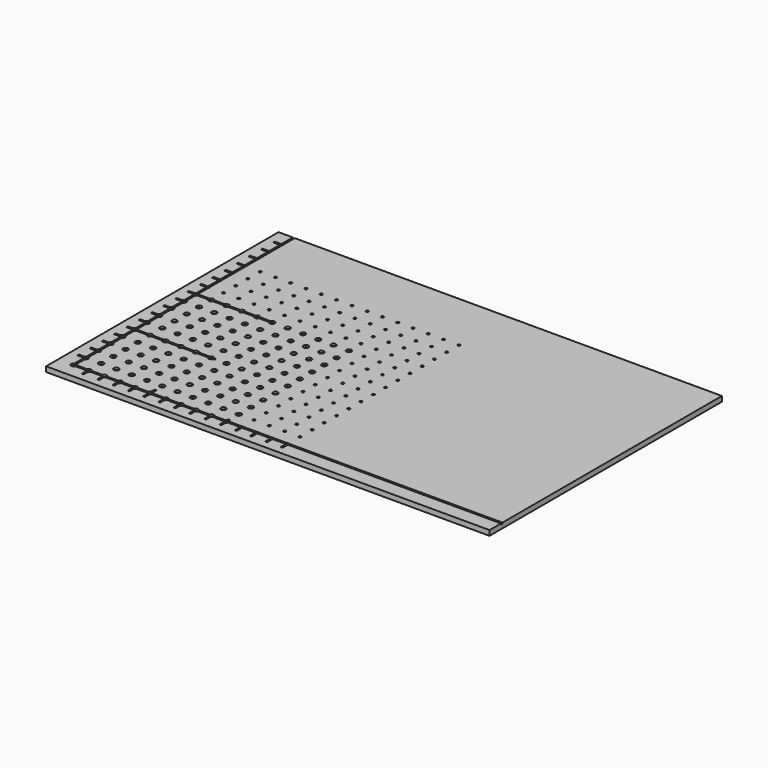
from build123d import *

# Parameters (mm, degrees)
F0_W      = 348
F0_H      = 228
F0_R      = 1
F1_DEPTH  = 4
F5_W      = 348
F5_H      = 228
F6_DEPTH  = 25
F7_R      = 2
F8_DEPTH  = 1.5
F9_DEPTH  = 1
F3_W      = 1.5
F3_H      = 6
F3_W_2    = 6
F3_H_2    = 1.5
F10_DEPTH = 1
F4_W      = 1.5
F4_H      = 5.414197
F4_H_2    = 2.753154
F4_W_2    = 63.146937
F4_H_3    = 1.5
F4_W_3    = 61.760404
F11_DEPTH = 1


with BuildPart() as f1:
    # F0 (on Top) → F1 (new body)
    with BuildSketch(Plane.XY):
        Rectangle(F0_W, F0_H)
        with Locations((-162, -102)):
            Circle(F0_R, mode=Mode.SUBTRACT)
        with Locations((-150, -102)):
            Circle(F0_R, mode=Mode.SUBTRACT)
        with Locations((-138, -102)):
            Circle(F0_R, mode=Mode.SUBTRACT)
        with Locations((-162, -90)):
            Circle(F0_R, mode=Mode.SUBTRACT)
        with Locations((-150, -90)):
            Circle(F0_R, mode=Mode.SUBTRACT)
        with Locations((-138, -90)):
            Circle(F0_R, mode=Mode.SUBTRACT)
        with Locations((-126, -102)):
            Circle(F0_R, mode=Mode.SUBTRACT)
        with Locations((-114, -102)):
            Circle(F0_R, mode=Mode.SUBTRACT)
        with Locations((-102, -102)):
            Circle(F0_R, mode=Mode.SUBTRACT)
        with Locations((-90, -102)):
            Circle(F0_R, mode=Mode.SUBTRACT)
        with Locations((-126, -90)):
            Circle(F0_R, mode=Mode.SUBTRACT)
        with Locations((-114, -90)):
            Circle(F0_R, mode=Mode.SUBTRACT)
        with Locations((-102, -90)):
            Circle(F0_R, mode=Mode.SUBTRACT)
        with Locations((-90, -90)):
            Circle(F0_R, mode=Mode.SUBTRACT)
        with Locations((-162, -78)):
            Circle(F0_R, mode=Mode.SUBTRACT)
        with Locations((-150, -78)):
            Circle(F0_R, mode=Mode.SUBTRACT)
        with Locations((-138, -78)):
            Circle(F0_R, mode=Mode.SUBTRACT)
        with Locations((-162, -66)):
            Circle(F0_R, mode=Mode.SUBTRACT)
        with Locations((-150, -66)):
            Circle(F0_R, mode=Mode.SUBTRACT)
        with Locations((-138, -66)):
            Circle(F0_R, mode=Mode.SUBTRACT)
        with Locations((-126, -78)):
            Circle(F0_R, mode=Mode.SUBTRACT)
        with Locations((-114, -78)):
            Circle(F0_R, mode=Mode.SUBTRACT)
        with Locations((-102, -78)):
            Circle(F0_R, mode=Mode.SUBTRACT)
        with Locations((-90, -78)):
            Circle(F0_R, mode=Mode.SUBTRACT)
        with Locations((-126, -66)):
            Circle(F0_R, mode=Mode.SUBTRACT)
        with Locations((-114, -66)):
            Circle(F0_R, mode=Mode.SUBTRACT)
        with Locations((-102, -66)):
            Circle(F0_R, mode=Mode.SUBTRACT)
        with Locations((-90, -66)):
            Circle(F0_R, mode=Mode.SUBTRACT)
        with Locations((-78, -102)):
            Circle(F0_R, mode=Mode.SUBTRACT)
        with Locations((-66, -102)):
            Circle(F0_R, mode=Mode.SUBTRACT)
        with Locations((-54, -102)):
            Circle(F0_R, mode=Mode.SUBTRACT)
        with Locations((-78, -90)):
            Circle(F0_R, mode=Mode.SUBTRACT)
        with Locations((-66, -90)):
            Circle(F0_R, mode=Mode.SUBTRACT)
        with Locations((-54, -90)):
            Circle(F0_R, mode=Mode.SUBTRACT)
        with Locations((-42, -102)):
            Circle(F0_R, mode=Mode.SUBTRACT)
        with Locations((-30, -102)):
            Circle(F0_R, mode=Mode.SUBTRACT)
        with Locations((-18, -102)):
            Circle(F0_R, mode=Mode.SUBTRACT)
        with Locations((-6, -102)):
            Circle(F0_R, mode=Mode.SUBTRACT)
        with Locations((-42, -90)):
            Circle(F0_R, mode=Mode.SUBTRACT)
        with Locations((-30, -90)):
            Circle(F0_R, mode=Mode.SUBTRACT)
        with Locations((-18, -90)):
            Circle(F0_R, mode=Mode.SUBTRACT)
        with Locations((-6, -90)):
            Circle(F0_R, mode=Mode.SUBTRACT)
        with Locations((-78, -78)):
            Circle(F0_R, mode=Mode.SUBTRACT)
        with Locations((-66, -78)):
            Circle(F0_R, mode=Mode.SUBTRACT)
        with Locations((-54, -78)):
            Circle(F0_R, mode=Mode.SUBTRACT)
        with Locations((-78, -66)):
            Circle(F0_R, mode=Mode.SUBTRACT)
        with Locations((-66, -66)):
            Circle(F0_R, mode=Mode.SUBTRACT)
        with Locations((-54, -66)):
            Circle(F0_R, mode=Mode.SUBTRACT)
        with Locations((-42, -78)):
            Circle(F0_R, mode=Mode.SUBTRACT)
        with Locations((-30, -78)):
            Circle(F0_R, mode=Mode.SUBTRACT)
        with Locations((-18, -78)):
            Circle(F0_R, mode=Mode.SUBTRACT)
        with Locations((-6, -78)):
            Circle(F0_R, mode=Mode.SUBTRACT)
        with Locations((-42, -66)):
            Circle(F0_R, mode=Mode.SUBTRACT)
        with Locations((-30, -66)):
            Circle(F0_R, mode=Mode.SUBTRACT)
        with Locations((-18, -66)):
            Circle(F0_R, mode=Mode.SUBTRACT)
        with Locations((-6, -66)):
            Circle(F0_R, mode=Mode.SUBTRACT)
        with Locations((-162, -54)):
            Circle(F0_R, mode=Mode.SUBTRACT)
        with Locations((-150, -54)):
            Circle(F0_R, mode=Mode.SUBTRACT)
        with Locations((-138, -54)):
            Circle(F0_R, mode=Mode.SUBTRACT)
        with Locations((-162, -42)):
            Circle(F0_R, mode=Mode.SUBTRACT)
        with Locations((-162, -30)):
            Circle(F0_R, mode=Mode.SUBTRACT)
        with Locations((-150, -42)):
            Circle(F0_R, mode=Mode.SUBTRACT)
        with Locations((-138, -42)):
            Circle(F0_R, mode=Mode.SUBTRACT)
        with Locations((-150, -30)):
            Circle(F0_R, mode=Mode.SUBTRACT)
        with Locations((-138, -30)):
            Circle(F0_R, mode=Mode.SUBTRACT)
        with Locations((-126, -54)):
            Circle(F0_R, mode=Mode.SUBTRACT)
        with Locations((-114, -54)):
            Circle(F0_R, mode=Mode.SUBTRACT)
        with Locations((-102, -54)):
            Circle(F0_R, mode=Mode.SUBTRACT)
        with Locations((-90, -54)):
            Circle(F0_R, mode=Mode.SUBTRACT)
        with Locations((-126, -42)):
            Circle(F0_R, mode=Mode.SUBTRACT)
        with Locations((-114, -42)):
            Circle(F0_R, mode=Mode.SUBTRACT)
        with Locations((-126, -30)):
            Circle(F0_R, mode=Mode.SUBTRACT)
        with Locations((-114, -30)):
            Circle(F0_R, mode=Mode.SUBTRACT)
        with Locations((-102, -42)):
            Circle(F0_R, mode=Mode.SUBTRACT)
        with Locations((-90, -42)):
            Circle(F0_R, mode=Mode.SUBTRACT)
        with Locations((-102, -30)):
            Circle(F0_R, mode=Mode.SUBTRACT)
        with Locations((-90, -30)):
            Circle(F0_R, mode=Mode.SUBTRACT)
        with Locations((-162, -18)):
            Circle(F0_R, mode=Mode.SUBTRACT)
        with Locations((-150, -18)):
            Circle(F0_R, mode=Mode.SUBTRACT)
        with Locations((-138, -18)):
            Circle(F0_R, mode=Mode.SUBTRACT)
        with Locations((-162, -6)):
            Circle(F0_R, mode=Mode.SUBTRACT)
        with Locations((-150, -6)):
            Circle(F0_R, mode=Mode.SUBTRACT)
        with Locations((-138, -6)):
            Circle(F0_R, mode=Mode.SUBTRACT)
        with Locations((-126, -18)):
            Circle(F0_R, mode=Mode.SUBTRACT)
        with Locations((-114, -18)):
            Circle(F0_R, mode=Mode.SUBTRACT)
        with Locations((-102, -18)):
            Circle(F0_R, mode=Mode.SUBTRACT)
        with Locations((-90, -18)):
            Circle(F0_R, mode=Mode.SUBTRACT)
        with Locations((-126, -6)):
            Circle(F0_R, mode=Mode.SUBTRACT)
        with Locations((-114, -6)):
            Circle(F0_R, mode=Mode.SUBTRACT)
        with Locations((-102, -6)):
            Circle(F0_R, mode=Mode.SUBTRACT)
        with Locations((-90, -6)):
            Circle(F0_R, mode=Mode.SUBTRACT)
        with Locations((-78, -54)):
            Circle(F0_R, mode=Mode.SUBTRACT)
        with Locations((-66, -54)):
            Circle(F0_R, mode=Mode.SUBTRACT)
        with Locations((-54, -54)):
            Circle(F0_R, mode=Mode.SUBTRACT)
        with Locations((-78, -42)):
            Circle(F0_R, mode=Mode.SUBTRACT)
        with Locations((-66, -42)):
            Circle(F0_R, mode=Mode.SUBTRACT)
        with Locations((-78, -30)):
            Circle(F0_R, mode=Mode.SUBTRACT)
        with Locations((-66, -30)):
            Circle(F0_R, mode=Mode.SUBTRACT)
        with Locations((-54, -42)):
            Circle(F0_R, mode=Mode.SUBTRACT)
        with Locations((-54, -30)):
            Circle(F0_R, mode=Mode.SUBTRACT)
        with Locations((-42, -54)):
            Circle(F0_R, mode=Mode.SUBTRACT)
        with Locations((-30, -54)):
            Circle(F0_R, mode=Mode.SUBTRACT)
        with Locations((-18, -54)):
            Circle(F0_R, mode=Mode.SUBTRACT)
        with Locations((-6, -54)):
            Circle(F0_R, mode=Mode.SUBTRACT)
        with Locations((-42, -42)):
            Circle(F0_R, mode=Mode.SUBTRACT)
        with Locations((-30, -42)):
            Circle(F0_R, mode=Mode.SUBTRACT)
        with Locations((-42, -30)):
            Circle(F0_R, mode=Mode.SUBTRACT)
        with Locations((-30, -30)):
            Circle(F0_R, mode=Mode.SUBTRACT)
        with Locations((-18, -42)):
            Circle(F0_R, mode=Mode.SUBTRACT)
        with Locations((-6, -42)):
            Circle(F0_R, mode=Mode.SUBTRACT)
        with Locations((-18, -30)):
            Circle(F0_R, mode=Mode.SUBTRACT)
        with Locations((-6, -30)):
            Circle(F0_R, mode=Mode.SUBTRACT)
        with Locations((-78, -18)):
            Circle(F0_R, mode=Mode.SUBTRACT)
        with Locations((-66, -18)):
            Circle(F0_R, mode=Mode.SUBTRACT)
        with Locations((-54, -18)):
            Circle(F0_R, mode=Mode.SUBTRACT)
        with Locations((-78, -6)):
            Circle(F0_R, mode=Mode.SUBTRACT)
        with Locations((-66, -6)):
            Circle(F0_R, mode=Mode.SUBTRACT)
        with Locations((-54, -6)):
            Circle(F0_R, mode=Mode.SUBTRACT)
        with Locations((-42, -18)):
            Circle(F0_R, mode=Mode.SUBTRACT)
        with Locations((-30, -18)):
            Circle(F0_R, mode=Mode.SUBTRACT)
        with Locations((-18, -18)):
            Circle(F0_R, mode=Mode.SUBTRACT)
        with Locations((-6, -18)):
            Circle(F0_R, mode=Mode.SUBTRACT)
        with Locations((-42, -6)):
            Circle(F0_R, mode=Mode.SUBTRACT)
        with Locations((-30, -6)):
            Circle(F0_R, mode=Mode.SUBTRACT)
        with Locations((-18, -6)):
            Circle(F0_R, mode=Mode.SUBTRACT)
        with Locations((-6, -6)):
            Circle(F0_R, mode=Mode.SUBTRACT)
        with Locations((6, -102)):
            Circle(F0_R, mode=Mode.SUBTRACT)
        with Locations((6, -90)):
            Circle(F0_R, mode=Mode.SUBTRACT)
        with Locations((6, -78)):
            Circle(F0_R, mode=Mode.SUBTRACT)
        with Locations((6, -66)):
            Circle(F0_R, mode=Mode.SUBTRACT)
        with Locations((6, -54)):
            Circle(F0_R, mode=Mode.SUBTRACT)
        with Locations((6, -42)):
            Circle(F0_R, mode=Mode.SUBTRACT)
        with Locations((6, -30)):
            Circle(F0_R, mode=Mode.SUBTRACT)
        with Locations((6, -18)):
            Circle(F0_R, mode=Mode.SUBTRACT)
        with Locations((6, -6)):
            Circle(F0_R, mode=Mode.SUBTRACT)
        with Locations((-162, 6)):
            Circle(F0_R, mode=Mode.SUBTRACT)
        with Locations((-150, 6)):
            Circle(F0_R, mode=Mode.SUBTRACT)
        with Locations((-138, 6)):
            Circle(F0_R, mode=Mode.SUBTRACT)
        with Locations((-162, 18)):
            Circle(F0_R, mode=Mode.SUBTRACT)
        with Locations((-150, 18)):
            Circle(F0_R, mode=Mode.SUBTRACT)
        with Locations((-138, 18)):
            Circle(F0_R, mode=Mode.SUBTRACT)
        with Locations((-126, 6)):
            Circle(F0_R, mode=Mode.SUBTRACT)
        with Locations((-114, 6)):
            Circle(F0_R, mode=Mode.SUBTRACT)
        with Locations((-102, 6)):
            Circle(F0_R, mode=Mode.SUBTRACT)
        with Locations((-90, 6)):
            Circle(F0_R, mode=Mode.SUBTRACT)
        with Locations((-126, 18)):
            Circle(F0_R, mode=Mode.SUBTRACT)
        with Locations((-114, 18)):
            Circle(F0_R, mode=Mode.SUBTRACT)
        with Locations((-102, 18)):
            Circle(F0_R, mode=Mode.SUBTRACT)
        with Locations((-90, 18)):
            Circle(F0_R, mode=Mode.SUBTRACT)
        with Locations((-162, 30)):
            Circle(F0_R, mode=Mode.SUBTRACT)
        with Locations((-162, 42)):
            Circle(F0_R, mode=Mode.SUBTRACT)
        with Locations((-150, 30)):
            Circle(F0_R, mode=Mode.SUBTRACT)
        with Locations((-138, 30)):
            Circle(F0_R, mode=Mode.SUBTRACT)
        with Locations((-150, 42)):
            Circle(F0_R, mode=Mode.SUBTRACT)
        with Locations((-138, 42)):
            Circle(F0_R, mode=Mode.SUBTRACT)
        with Locations((-162, 54)):
            Circle(F0_R, mode=Mode.SUBTRACT)
        with Locations((-150, 54)):
            Circle(F0_R, mode=Mode.SUBTRACT)
        with Locations((-138, 54)):
            Circle(F0_R, mode=Mode.SUBTRACT)
        with Locations((-126, 30)):
            Circle(F0_R, mode=Mode.SUBTRACT)
        with Locations((-114, 30)):
            Circle(F0_R, mode=Mode.SUBTRACT)
        with Locations((-126, 42)):
            Circle(F0_R, mode=Mode.SUBTRACT)
        with Locations((-114, 42)):
            Circle(F0_R, mode=Mode.SUBTRACT)
        with Locations((-102, 30)):
            Circle(F0_R, mode=Mode.SUBTRACT)
        with Locations((-90, 30)):
            Circle(F0_R, mode=Mode.SUBTRACT)
        with Locations((-102, 42)):
            Circle(F0_R, mode=Mode.SUBTRACT)
        with Locations((-90, 42)):
            Circle(F0_R, mode=Mode.SUBTRACT)
        with Locations((-126, 54)):
            Circle(F0_R, mode=Mode.SUBTRACT)
        with Locations((-114, 54)):
            Circle(F0_R, mode=Mode.SUBTRACT)
        with Locations((-102, 54)):
            Circle(F0_R, mode=Mode.SUBTRACT)
        with Locations((-90, 54)):
            Circle(F0_R, mode=Mode.SUBTRACT)
        with Locations((-78, 6)):
            Circle(F0_R, mode=Mode.SUBTRACT)
        with Locations((-66, 6)):
            Circle(F0_R, mode=Mode.SUBTRACT)
        with Locations((-54, 6)):
            Circle(F0_R, mode=Mode.SUBTRACT)
        with Locations((-78, 18)):
            Circle(F0_R, mode=Mode.SUBTRACT)
        with Locations((-66, 18)):
            Circle(F0_R, mode=Mode.SUBTRACT)
        with Locations((-54, 18)):
            Circle(F0_R, mode=Mode.SUBTRACT)
        with Locations((-42, 6)):
            Circle(F0_R, mode=Mode.SUBTRACT)
        with Locations((-30, 6)):
            Circle(F0_R, mode=Mode.SUBTRACT)
        with Locations((-18, 6)):
            Circle(F0_R, mode=Mode.SUBTRACT)
        with Locations((-6, 6)):
            Circle(F0_R, mode=Mode.SUBTRACT)
        with Locations((-42, 18)):
            Circle(F0_R, mode=Mode.SUBTRACT)
        with Locations((-30, 18)):
            Circle(F0_R, mode=Mode.SUBTRACT)
        with Locations((-18, 18)):
            Circle(F0_R, mode=Mode.SUBTRACT)
        with Locations((-6, 18)):
            Circle(F0_R, mode=Mode.SUBTRACT)
        with Locations((-78, 30)):
            Circle(F0_R, mode=Mode.SUBTRACT)
        with Locations((-66, 30)):
            Circle(F0_R, mode=Mode.SUBTRACT)
        with Locations((-78, 42)):
            Circle(F0_R, mode=Mode.SUBTRACT)
        with Locations((-66, 42)):
            Circle(F0_R, mode=Mode.SUBTRACT)
        with Locations((-54, 30)):
            Circle(F0_R, mode=Mode.SUBTRACT)
        with Locations((-54, 42)):
            Circle(F0_R, mode=Mode.SUBTRACT)
        with Locations((-78, 54)):
            Circle(F0_R, mode=Mode.SUBTRACT)
        with Locations((-66, 54)):
            Circle(F0_R, mode=Mode.SUBTRACT)
        with Locations((-54, 54)):
            Circle(F0_R, mode=Mode.SUBTRACT)
        with Locations((-42, 30)):
            Circle(F0_R, mode=Mode.SUBTRACT)
        with Locations((-30, 30)):
            Circle(F0_R, mode=Mode.SUBTRACT)
        with Locations((-42, 42)):
            Circle(F0_R, mode=Mode.SUBTRACT)
        with Locations((-30, 42)):
            Circle(F0_R, mode=Mode.SUBTRACT)
        with Locations((-18, 30)):
            Circle(F0_R, mode=Mode.SUBTRACT)
        with Locations((-6, 30)):
            Circle(F0_R, mode=Mode.SUBTRACT)
        with Locations((-18, 42)):
            Circle(F0_R, mode=Mode.SUBTRACT)
        with Locations((-6, 42)):
            Circle(F0_R, mode=Mode.SUBTRACT)
        with Locations((-42, 54)):
            Circle(F0_R, mode=Mode.SUBTRACT)
        with Locations((-30, 54)):
            Circle(F0_R, mode=Mode.SUBTRACT)
        with Locations((-18, 54)):
            Circle(F0_R, mode=Mode.SUBTRACT)
        with Locations((-6, 54)):
            Circle(F0_R, mode=Mode.SUBTRACT)
        with Locations((-162, 66)):
            Circle(F0_R, mode=Mode.SUBTRACT)
        with Locations((-150, 66)):
            Circle(F0_R, mode=Mode.SUBTRACT)
        with Locations((-138, 66)):
            Circle(F0_R, mode=Mode.SUBTRACT)
        with Locations((-126, 66)):
            Circle(F0_R, mode=Mode.SUBTRACT)
        with Locations((-114, 66)):
            Circle(F0_R, mode=Mode.SUBTRACT)
        with Locations((-102, 66)):
            Circle(F0_R, mode=Mode.SUBTRACT)
        with Locations((-90, 66)):
            Circle(F0_R, mode=Mode.SUBTRACT)
        with Locations((-78, 66)):
            Circle(F0_R, mode=Mode.SUBTRACT)
        with Locations((-66, 66)):
            Circle(F0_R, mode=Mode.SUBTRACT)
        with Locations((-54, 66)):
            Circle(F0_R, mode=Mode.SUBTRACT)
        with Locations((-42, 66)):
            Circle(F0_R, mode=Mode.SUBTRACT)
        with Locations((-30, 66)):
            Circle(F0_R, mode=Mode.SUBTRACT)
        with Locations((-18, 66)):
            Circle(F0_R, mode=Mode.SUBTRACT)
        with Locations((-6, 66)):
            Circle(F0_R, mode=Mode.SUBTRACT)
        with Locations((6, 6)):
            Circle(F0_R, mode=Mode.SUBTRACT)
        with Locations((6, 18)):
            Circle(F0_R, mode=Mode.SUBTRACT)
        with Locations((6, 30)):
            Circle(F0_R, mode=Mode.SUBTRACT)
        with Locations((6, 42)):
            Circle(F0_R, mode=Mode.SUBTRACT)
        with Locations((6, 54)):
            Circle(F0_R, mode=Mode.SUBTRACT)
        with Locations((6, 66)):
            Circle(F0_R, mode=Mode.SUBTRACT)
    extrude(amount=F1_DEPTH)

    # F5 (on face) → F6 (intersect)
    with BuildSketch(Plane.XY.offset(4)):
        Rectangle(F5_W, F5_H)
    extrude(amount=-F6_DEPTH, mode=Mode.INTERSECT)

    # F7 (on face) → F8 (cut)
    with BuildSketch(Plane.XY.offset(4)):
        with Locations((-162, 18)):
            Circle(F7_R)
        with Locations((-162, 6)):
            Circle(F7_R)
        with Locations((-162, -6)):
            Circle(F7_R)
        with Locations((-162, -18)):
            Circle(F7_R)
        with Locations((-162, -30)):
            Circle(F7_R)
        with Locations((-162, -42)):
            Circle(F7_R)
        with Locations((-162, -54)):
            Circle(F7_R)
        with Locations((-162, -66)):
            Circle(F7_R)
        with Locations((-162, -78)):
            Circle(F7_R)
        with Locations((-162, -90)):
            Circle(F7_R)
        with Locations((-162, -102)):
            Circle(F7_R)
        with Locations((-150, 18)):
            Circle(F7_R)
        with Locations((-150, 6)):
            Circle(F7_R)
        with Locations((-150, -6)):
            Circle(F7_R)
        with Locations((-150, -18)):
            Circle(F7_R)
        with Locations((-150, -30)):
            Circle(F7_R)
        with Locations((-150, -42)):
            Circle(F7_R)
        with Locations((-150, -54)):
            Circle(F7_R)
        with Locations((-150, -66)):
            Circle(F7_R)
        with Locations((-150, -78)):
            Circle(F7_R)
        with Locations((-150, -90)):
            Circle(F7_R)
        with Locations((-150, -102)):
            Circle(F7_R)
        with Locations((-138, 18)):
            Circle(F7_R)
        with Locations((-138, 6)):
            Circle(F7_R)
        with Locations((-138, -6)):
            Circle(F7_R)
        with Locations((-138, -18)):
            Circle(F7_R)
        with Locations((-138, -30)):
            Circle(F7_R)
        with Locations((-138, -42)):
            Circle(F7_R)
        with Locations((-138, -54)):
            Circle(F7_R)
        with Locations((-138, -66)):
            Circle(F7_R)
        with Locations((-138, -78)):
            Circle(F7_R)
        with Locations((-138, -90)):
            Circle(F7_R)
        with Locations((-138, -102)):
            Circle(F7_R)
        with Locations((-126, 18)):
            Circle(F7_R)
        with Locations((-126, 6)):
            Circle(F7_R)
        with Locations((-126, -6)):
            Circle(F7_R)
        with Locations((-126, -18)):
            Circle(F7_R)
        with Locations((-126, -30)):
            Circle(F7_R)
        with Locations((-126, -42)):
            Circle(F7_R)
        with Locations((-126, -54)):
            Circle(F7_R)
        with Locations((-126, -66)):
            Circle(F7_R)
        with Locations((-126, -78)):
            Circle(F7_R)
        with Locations((-126, -90)):
            Circle(F7_R)
        with Locations((-126, -102)):
            Circle(F7_R)
        with Locations((-114, 18)):
            Circle(F7_R)
        with Locations((-114, 6)):
            Circle(F7_R)
        with Locations((-114, -6)):
            Circle(F7_R)
        with Locations((-114, -18)):
            Circle(F7_R)
        with Locations((-114, -30)):
            Circle(F7_R)
        with Locations((-114, -42)):
            Circle(F7_R)
        with Locations((-114, -54)):
            Circle(F7_R)
        with Locations((-114, -66)):
            Circle(F7_R)
        with Locations((-114, -78)):
            Circle(F7_R)
        with Locations((-114, -90)):
            Circle(F7_R)
        with Locations((-114, -102)):
            Circle(F7_R)
        with Locations((-102, 18)):
            Circle(F7_R)
        with Locations((-102, 6)):
            Circle(F7_R)
        with Locations((-102, -6)):
            Circle(F7_R)
        with Locations((-102, -18)):
            Circle(F7_R)
        with Locations((-102, -30)):
            Circle(F7_R)
        with Locations((-102, -42)):
            Circle(F7_R)
        with Locations((-102, -54)):
            Circle(F7_R)
        with Locations((-102, -66)):
            Circle(F7_R)
        with Locations((-102, -78)):
            Circle(F7_R)
        with Locations((-102, -90)):
            Circle(F7_R)
        with Locations((-102, -102)):
            Circle(F7_R)
        with Locations((-90, 18)):
            Circle(F7_R)
        with Locations((-90, 6)):
            Circle(F7_R)
        with Locations((-90, -6)):
            Circle(F7_R)
        with Locations((-90, -18)):
            Circle(F7_R)
        with Locations((-90, -30)):
            Circle(F7_R)
        with Locations((-90, -42)):
            Circle(F7_R)
        with Locations((-90, -54)):
            Circle(F7_R)
        with Locations((-90, -66)):
            Circle(F7_R)
        with Locations((-90, -78)):
            Circle(F7_R)
        with Locations((-90, -90)):
            Circle(F7_R)
        with Locations((-90, -102)):
            Circle(F7_R)
        with Locations((-78, 18)):
            Circle(F7_R)
        with Locations((-78, 6)):
            Circle(F7_R)
        with Locations((-78, -6)):
            Circle(F7_R)
        with Locations((-78, -18)):
            Circle(F7_R)
        with Locations((-78, -30)):
            Circle(F7_R)
        with Locations((-78, -42)):
            Circle(F7_R)
        with Locations((-78, -54)):
            Circle(F7_R)
        with Locations((-78, -66)):
            Circle(F7_R)
        with Locations((-78, -78)):
            Circle(F7_R)
        with Locations((-78, -90)):
            Circle(F7_R)
        with Locations((-78, -102)):
            Circle(F7_R)
        with Locations((-66, 18)):
            Circle(F7_R)
        with Locations((-66, 6)):
            Circle(F7_R)
        with Locations((-66, -6)):
            Circle(F7_R)
        with Locations((-66, -18)):
            Circle(F7_R)
        with Locations((-66, -30)):
            Circle(F7_R)
        with Locations((-66, -42)):
            Circle(F7_R)
        with Locations((-66, -54)):
            Circle(F7_R)
        with Locations((-66, -66)):
            Circle(F7_R)
        with Locations((-66, -78)):
            Circle(F7_R)
        with Locations((-66, -90)):
            Circle(F7_R)
        with Locations((-66, -102)):
            Circle(F7_R)
        with Locations((-54, 18)):
            Circle(F7_R)
        with Locations((-54, 6)):
            Circle(F7_R)
        with Locations((-54, -6)):
            Circle(F7_R)
        with Locations((-54, -18)):
            Circle(F7_R)
        with Locations((-54, -30)):
            Circle(F7_R)
        with Locations((-54, -42)):
            Circle(F7_R)
        with Locations((-54, -54)):
            Circle(F7_R)
        with Locations((-54, -66)):
            Circle(F7_R)
        with Locations((-54, -78)):
            Circle(F7_R)
        with Locations((-54, -90)):
            Circle(F7_R)
        with Locations((-54, -102)):
            Circle(F7_R)
        with Locations((-42, 18)):
            Circle(F7_R)
        with Locations((-42, 6)):
            Circle(F7_R)
        with Locations((-42, -6)):
            Circle(F7_R)
        with Locations((-42, -18)):
            Circle(F7_R)
        with Locations((-42, -30)):
            Circle(F7_R)
        with Locations((-42, -42)):
            Circle(F7_R)
        with Locations((-42, -54)):
            Circle(F7_R)
        with Locations((-42, -66)):
            Circle(F7_R)
        with Locations((-42, -78)):
            Circle(F7_R)
        with Locations((-42, -90)):
            Circle(F7_R)
        with Locations((-42, -102)):
            Circle(F7_R)
    extrude(amount=-F8_DEPTH, mode=Mode.SUBTRACT)

    # F2 (on face) → F9 (cut)
    with BuildSketch(Plane.XY.offset(4)):
        Polygon((-161.25, 114), (-162.75, 114), (-162.75, -102.75), (174, -102.75), (174, -101.25), (-161.25, -101.25), align=None)
    extrude(amount=-F9_DEPTH, mode=Mode.SUBTRACT)

    # F3 (on face) → F10 (cut)
    with BuildSketch(Plane.XY.offset(4)):
        with Locations((-150, -105)):
            Rectangle(F3_W, F3_H)
        with Locations((-138, -105)):
            Rectangle(F3_W, F3_H)
        with Locations((-126, -105)):
            Rectangle(F3_W, F3_H)
        with Locations((-114, -105)):
            Rectangle(F3_W, F3_H)
        with Locations((-102, -105)):
            Rectangle(F3_W, F3_H)
        with Locations((-90, -105)):
            Rectangle(F3_W, F3_H)
        with Locations((-78, -105)):
            Rectangle(F3_W, F3_H)
        with Locations((-66, -105)):
            Rectangle(F3_W, F3_H)
        with Locations((-54, -105)):
            Rectangle(F3_W, F3_H)
        with Locations((-42, -105)):
            Rectangle(F3_W, F3_H)
        with Locations((-30, -105)):
            Rectangle(F3_W, F3_H)
        with Locations((-18, -105)):
            Rectangle(F3_W, F3_H)
        with Locations((-6, -105)):
            Rectangle(F3_W, F3_H)
        with Locations((6, -105)):
            Rectangle(F3_W, F3_H)
        with Locations((-165, -90)):
            Rectangle(F3_W_2, F3_H_2)
        with Locations((-165, -78)):
            Rectangle(F3_W_2, F3_H_2)
        with Locations((-165, -66)):
            Rectangle(F3_W_2, F3_H_2)
        with Locations((-165, -54)):
            Rectangle(F3_W_2, F3_H_2)
        with Locations((-165, -42)):
            Rectangle(F3_W_2, F3_H_2)
        with Locations((-165, -30)):
            Rectangle(F3_W_2, F3_H_2)
        with Locations((-165, -18)):
            Rectangle(F3_W_2, F3_H_2)
        with Locations((-165, -6)):
            Rectangle(F3_W_2, F3_H_2)
        with Locations((-165, 6)):
            Rectangle(F3_W_2, F3_H_2)
        with Locations((-165, 18)):
            Rectangle(F3_W_2, F3_H_2)
        with Locations((-165, 30)):
            Rectangle(F3_W_2, F3_H_2)
        with Locations((-165, 42)):
            Rectangle(F3_W_2, F3_H_2)
        with Locations((-165, 54)):
            Rectangle(F3_W_2, F3_H_2)
        with Locations((-165, 66)):
            Rectangle(F3_W_2, F3_H_2)
        with Locations((-165, 78)):
            Rectangle(F3_W_2, F3_H_2)
        with Locations((-165, 90)):
            Rectangle(F3_W_2, F3_H_2)
        with Locations((-165, 102)):
            Rectangle(F3_W_2, F3_H_2)
    extrude(amount=-F10_DEPTH, mode=Mode.SUBTRACT)

    # F4 (on face) → F11 (cut)
    with BuildSketch(Plane.XY.offset(4)):
        with Locations((-102, -99.292901)):
            Rectangle(F4_W, F4_H)
        with Locations((-42, -100.623423)):
            Rectangle(F4_W, F4_H_2)
        with Locations((-130.426532, -42)):
            Rectangle(F4_W_2, F4_H_3)
        with Locations((-131.119798, 18)):
            Rectangle(F4_W_3, F4_H_3)
    extrude(amount=-F11_DEPTH, mode=Mode.SUBTRACT)


solid = f1.part
